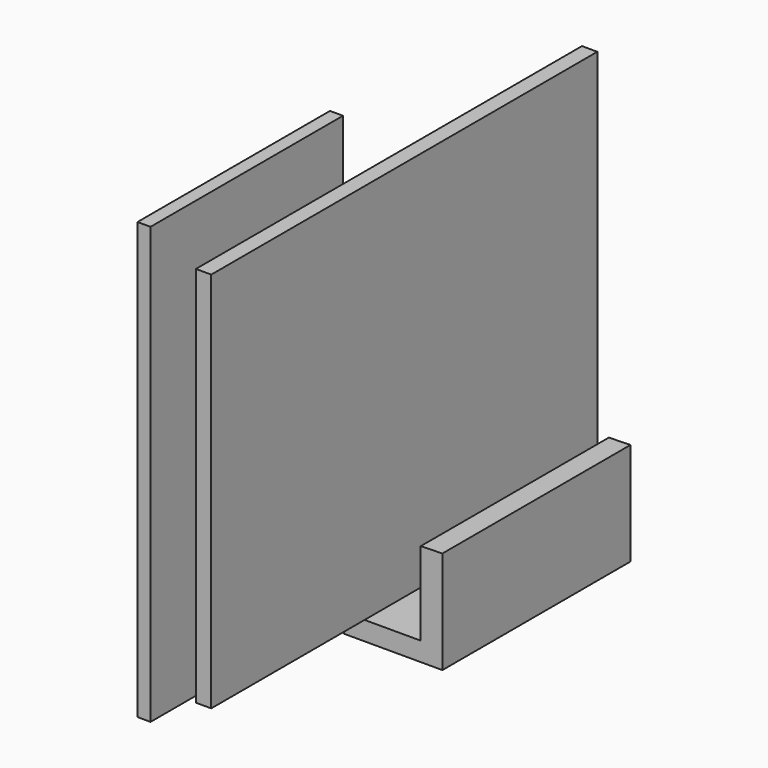
from build123d import *

# Parameters (mm, degrees)
F0_W     = 135.538697
F0_H     = 107.255034
F1_DEPTH = 4.318
F3_W     = 3.66321
F3_H     = 122.412201
F4_DEPTH = 67.564
F5_DEPTH = 66.04
F7_DEPTH = 14.224


with BuildPart() as f1:
    # F0 (on Right) → F1 (new body)
    with BuildSketch(Plane.YZ):
        with Locations((-5.767196, 0.099536)):
            Rectangle(F0_W, F0_H)
    extrude(amount=-F1_DEPTH)

    # F2 (on Front) → F5 (join)
    with BuildSketch(Plane.XZ):
        Polygon((6.088697, -43.139536), (0, -43.305252), (0, -66.671006), (-21.58564, -66.671006), (-21.58564, -71.973875), (6.088697, -71.973875), align=None)
    extrude(amount=-F5_DEPTH)

    # F6 (on Front) → F7 (join)
    with BuildSketch(Plane.XZ):
        Polygon((-3.950159, 0), (-21.515906, 0), (-21.479825, -3.713604), (-6.313822, -3.713604), (-3.950159, -1.955935), align=None)
        Polygon((-6.548177, -5.822806), (-21.457924, -5.967668), (-21.35019, -17.056067), (-3.950159, -8.604623), (-3.950159, -7.228941), align=None)
    extrude(amount=F7_DEPTH)


with BuildPart() as f4:
    # F3 (on Front) → F4 (new body)
    with BuildSketch(Plane.XZ):
        with Locations((-23.658217, -5.18954)):
            Rectangle(F3_W, F3_H)
    extrude(amount=F4_DEPTH)


solid = Compound([f1.part, f4.part])
